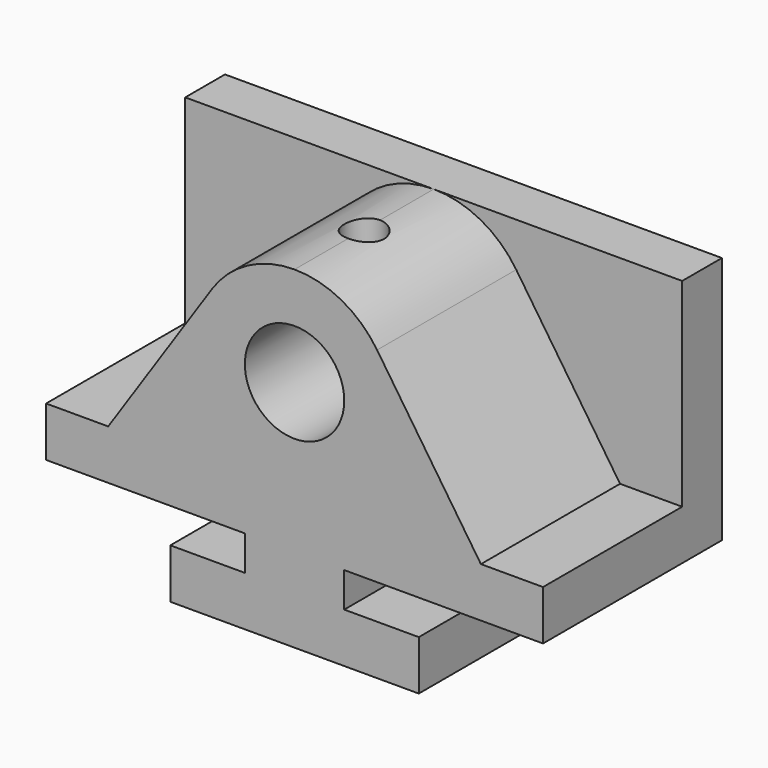
from build123d import *

# Parameters (mm, degrees)
F1_DEPTH = 28.575
F3_DEPTH = 44.45
F4_R     = 12.7
F5_DEPTH = 44.45
F6_R     = 5.08
F7_DEPTH = 25.4


with BuildPart() as f1:
    # F0 (on Front) → F1 (new body, symmetric)
    with BuildSketch(Plane.XZ):
        Polygon((-31.75, 0), (0, 0), (31.75, 0), (31.75, 12.7), (12.7, 12.7), (12.7, 21.59), (63.5, 21.59), (63.5, 85.09), (0, 85.09), (-63.5, 85.09), (-63.5, 21.59), (-12.7, 21.59), (-12.7, 12.7), (-31.75, 12.7), align=None)
    extrude(amount=F1_DEPTH, both=True)

    # F2 (on face) → F3 (cut)
    with BuildSketch(Plane.XZ.offset(28.575)):
        with BuildLine():
            Line((-63.5, 85.09), (-63.5, 34.29))
            Line((-63.5, 34.29), (-47.625, 34.29))
            Line((-47.625, 34.29), (-21.093426, 73.840173))
            ThreePointArc((-21.093426, 73.840173), (-11.952941, 82.101765), (0, 85.09))
            Line((0, 85.09), (-63.5, 85.09))
        make_face()
        with BuildLine():
            Line((47.625, 34.29), (63.5, 34.29))
            Line((63.5, 34.29), (63.5, 85.09))
            Line((63.5, 85.09), (0, 85.09))
            ThreePointArc((0, 85.09), (11.952941, 82.101765), (21.093426, 73.840173))
            Line((21.093426, 73.840173), (47.625, 34.29))
        make_face()
    extrude(amount=-F3_DEPTH, mode=Mode.SUBTRACT)

    # F4 (on face) → F5 (cut)
    with BuildSketch(Plane.XZ.offset(28.575)):
        with Locations((0, 59.69)):
            Circle(F4_R)
    extrude(amount=-F5_DEPTH, mode=Mode.SUBTRACT)

    # F6 (on face) → F7 (cut)
    with BuildSketch(Plane.XY.offset(85.09)):
        with Locations((0, -6.35)):
            Circle(F6_R)
    extrude(amount=-F7_DEPTH, mode=Mode.SUBTRACT)


solid = f1.part
